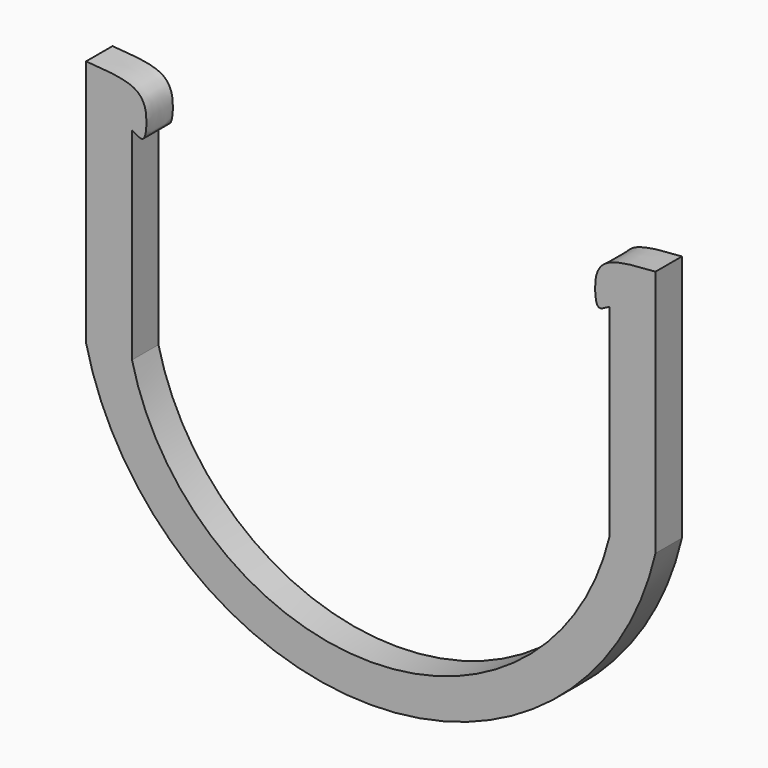
from build123d import *

# Parameters (mm, degrees)
F2_DEPTH = 4.572


with BuildPart() as f2:
    # F0 (on Front) → F2 (new body)
    with BuildSketch(Plane.XZ):
        with BuildLine():
            add(Edge.make_bspline(
                [(0, 34.29), (2.6595032543, 34.1218786327), (6.8410462273, 33.8575410271), (8.2231424457, 31.5056600227), (8.3576780587, 30.0085364948), (8.3617785553, 28.8524886525), (8.106687112, 27.3344007608), (7.4111867176, 27.3555041178), (6.8997891701, 27.6921221538), (6.5329051916, 27.8575353983), (6.35, 27.94)],
                knots=[0, 0, 0, 0, 0.2653006447, 0.4171328029, 0.5379049919, 0.6513099628, 0.7692832851, 0.8413997949, 0.9209319496, 1, 1, 1, 1], degree=3))
            Line((0, 34.29), (0, 0))
            ThreePointArc((0, 0), (39.37, -31.2501201344), (78.74, 0))
            Line((78.74, 0), (78.74, 34.29))
            add(Edge.make_bspline(
                [(78.74, 34.29), (76.0804967457, 34.1218786327), (71.8989537727, 33.8575410271), (70.5168575543, 31.5056600227), (70.3823219413, 30.0085364948), (70.3782214447, 28.8524886525), (70.633312888, 27.3344007608), (71.3288132824, 27.3555041178), (71.8402108299, 27.6921221538), (72.2070948084, 27.8575353983), (72.39, 27.94)],
                knots=[0, 0, 0, 0, 0.2653006447, 0.4171328029, 0.5379049919, 0.6513099628, 0.7692832851, 0.8413997949, 0.9209319496, 1, 1, 1, 1], degree=3))
            Line((72.39, 27.94), (72.39, 0))
            ThreePointArc((72.39, 0), (39.37, -26.0308788459), (6.35, 0))
            Line((6.35, 0), (6.35, 27.94))
        make_face()
    extrude(amount=F2_DEPTH)


with BuildPart() as f2b:
    # F1 (on face) → F2, piece 2 (new body)
    with BuildSketch(Plane.XZ):
        with BuildLine():
            add(Edge.make_bspline(
                [(0, 34.29), (2.6595032543, 34.1218786327), (6.8410462273, 33.8575410271), (8.2231424457, 31.5056600227), (8.3576780587, 30.0085364948), (8.3617785553, 28.8524886525), (8.106687112, 27.3344007608), (7.4111867176, 27.3555041178), (6.8997891701, 27.6921221538), (6.5329051916, 27.8575353983), (6.35, 27.94)],
                knots=[0, 0, 0, 0, 0.2653006447, 0.4171328029, 0.5379049919, 0.6513099628, 0.7692832851, 0.8413997949, 0.9209319496, 1, 1, 1, 1], degree=3))
            Line((0, 34.29), (0, 0))
            ThreePointArc((0, 0), (39.37, -31.2501201344), (78.74, 0))
            Line((78.74, 0), (78.74, 34.29))
            add(Edge.make_bspline(
                [(78.74, 34.29), (76.0804967457, 34.1218786327), (71.8989537727, 33.8575410271), (70.5168575543, 31.5056600227), (70.3823219413, 30.0085364948), (70.3782214447, 28.8524886525), (70.633312888, 27.3344007608), (71.3288132824, 27.3555041178), (71.8402108299, 27.6921221538), (72.2070948084, 27.8575353983), (72.39, 27.94)],
                knots=[0, 0, 0, 0, 0.2653006447, 0.4171328029, 0.5379049919, 0.6513099628, 0.7692832851, 0.8413997949, 0.9209319496, 1, 1, 1, 1], degree=3))
            Line((72.39, 27.94), (72.39, 0))
            ThreePointArc((72.39, 0), (39.37, -26.0308788459), (6.35, 0))
            Line((6.35, 0), (6.35, 27.94))
        make_face()
    extrude(amount=F2_DEPTH)


solid = Compound([f2.part, f2b.part])
